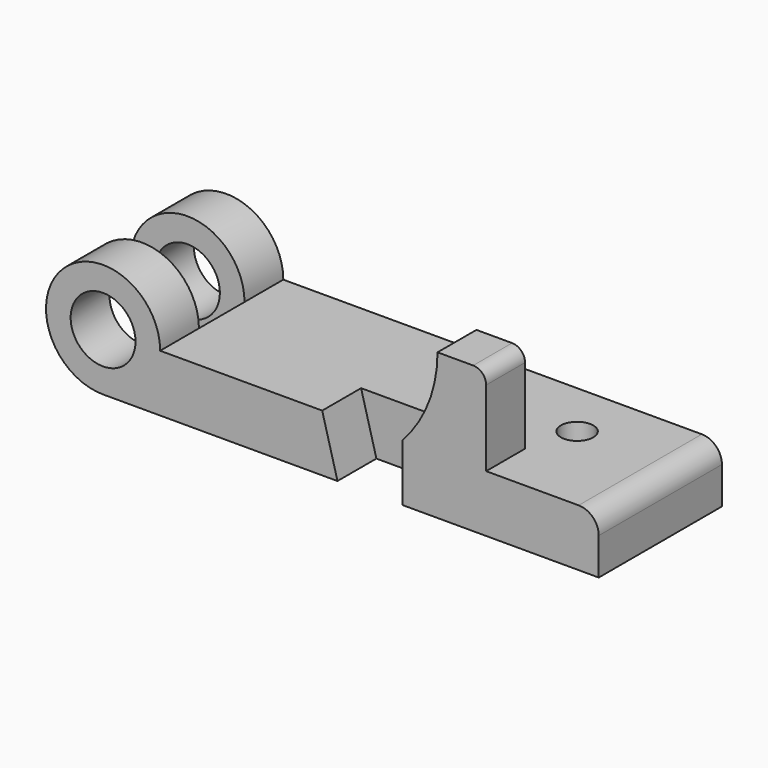
from build123d import *

# Parameters (mm, degrees)
F0_R     = 12.7
F1_DEPTH = 60.325
F2_DEPTH = 60.325
F3_DEPTH = 60.325
F4_DEPTH = 19.05
F5_DEPTH = 19.05
F6_W     = 44.704
F6_H     = 22.3266
F7_DEPTH = 36.83
F8_R     = 6.35
F9_DEPTH = 25.4


with BuildPart() as f1:
    # F0 (on Front) → F1 (new body)
    with BuildSketch(Plane.XZ):
        with BuildLine():
            ThreePointArc((0, -22.352), (15.8052507731, -15.8052507731), (22.352, 0))
            ThreePointArc((22.352, 0), (-15.8052507731, 15.8052507731), (0, -22.352))
        make_face()
        Circle(F0_R, mode=Mode.SUBTRACT)
    extrude(amount=-F1_DEPTH)

    # F0 (on Front) → F2, piece 2 (join)
    with BuildSketch(Plane.XZ):
        with BuildLine():
            Line((85.852, 0), (22.352, 0))
            ThreePointArc((22.352, 0), (15.8052507731, -15.8052507731), (0, -22.352))
            Line((0, -22.352), (91.8464, -22.352))
            Line((91.8464, -22.352), (85.852, 0))
        make_face()
    extrude(amount=-F2_DEPTH)



with BuildPart() as f2:
    # F0 (on Front) → F2 (new body)
    with BuildSketch(Plane.XZ):
        with BuildLine():
            Line((150.0886, 0), (117.2464, 0))
            Line((117.2464, 0), (117.2464, -22.352))
            Line((117.2464, -22.352), (194.2084, -22.352))
            Line((194.2084, -22.352), (194.2084, -7.874))
            ThreePointArc((194.2084, -7.874), (191.9021587951, -2.3062412049), (186.3344, 0))
            Line((186.3344, 0), (150.0886, 0))
        make_face()
    extrude(amount=-F2_DEPTH)


with BuildPart() as f1_1:
    add(f1.part)

    add(f2.part)  # F3 merges F2
    # F0 (on Front) → F3 (join, through all)
    with BuildSketch(Plane.XZ):
        Polygon((117.2464, 0), (85.852, 0), (91.8464, -22.352), (117.2464, -22.352), align=None)
    extrude(amount=-F3_DEPTH)

    # F0 (on Front) → F4 (cut)
    with BuildSketch(Plane.XZ):
        Polygon((117.2464, 0), (85.852, 0), (91.8464, -22.352), (117.2464, -22.352), align=None)
    extrude(amount=-F4_DEPTH, mode=Mode.SUBTRACT)

    # F0 (on Front) → F5 (join)
    with BuildSketch(Plane.XZ):
        with BuildLine():
            ThreePointArc((131.0386, 34.798), (127.4644153616, 16.0823576341), (117.2464, 0))
            Line((117.2464, 0), (150.0886, 0))
            Line((150.0886, 0), (150.0886, 29.718))
            ThreePointArc((150.0886, 29.718), (148.6007024484, 33.3101024484), (145.0086, 34.798))
            Line((145.0086, 34.798), (131.0386, 34.798))
        make_face()
    extrude(amount=-F5_DEPTH)

    # F6 (on Top) → F7 (cut, symmetric)
    with BuildSketch(Plane.XY):
        with Locations((0, 30.1625)):
            Rectangle(F6_W, F6_H)
    extrude(amount=F7_DEPTH, both=True, mode=Mode.SUBTRACT)

    # F8 (on face) → F9 (cut)
    with BuildSketch(Plane.XY):
        with Locations((155.3464, 37.973)):
            Circle(F8_R)
    extrude(amount=-F9_DEPTH, mode=Mode.SUBTRACT)


solid = f1_1.part
